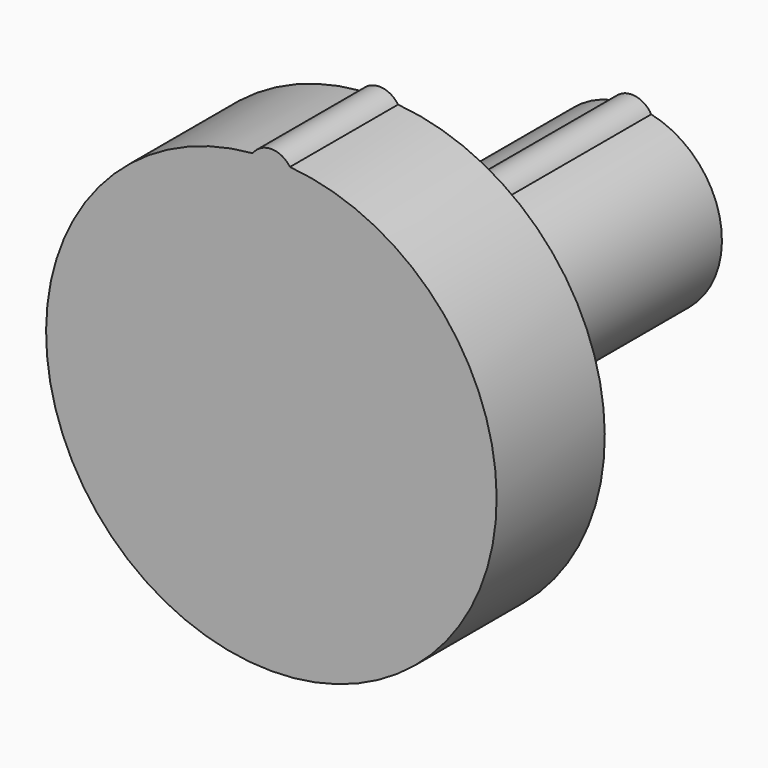
from build123d import *

# Parameters (mm, degrees)
CYLINDER002_R     = 5
CYLINDER002_DEPTH = 3
CYLINDER003_R     = 2
CYLINDER003_DEPTH = 10
CYLINDER001_R     = 0.5
CYLINDER001_DEPTH = 3
CYLINDER_R        = 0.5
CYLINDER_DEPTH    = 10


with BuildPart() as cylinder002:
    # Cylinder002 → Cylinder002 (new body)
    with BuildSketch(Plane(origin=(0, 0, 0), x_dir=(1, 0, 0), z_dir=(0, 1, 0))):
        Circle(CYLINDER002_R)
    extrude(amount=CYLINDER002_DEPTH)


with BuildPart() as cylinder003:
    # Cylinder003 → Cylinder003 (new body)
    with BuildSketch(Plane(origin=(0, 0, 0), x_dir=(1, 0, 0), z_dir=(0, 1, 0))):
        Circle(CYLINDER003_R)
    extrude(amount=CYLINDER003_DEPTH)


with BuildPart() as cylinder001:
    # Cylinder001 → Cylinder001 (new body)
    with BuildSketch(Plane(origin=(0, 0, 4.7), x_dir=(1, 0, 0), z_dir=(0, 1, 0))):
        Circle(CYLINDER001_R)
    extrude(amount=CYLINDER001_DEPTH)


with BuildPart() as m4:
    # Cylinder → Cylinder (new body)
    with BuildSketch(Plane(origin=(0, 0, 1.7), x_dir=(1, 0, 0), z_dir=(0, 1, 0))):
        Circle(CYLINDER_R)
    extrude(amount=CYLINDER_DEPTH)

    # Fusion001: union Cylinder002, Cylinder003, Cylinder001
    add(cylinder002.part)
    add(cylinder003.part)
    add(cylinder001.part)


solid = m4.part
